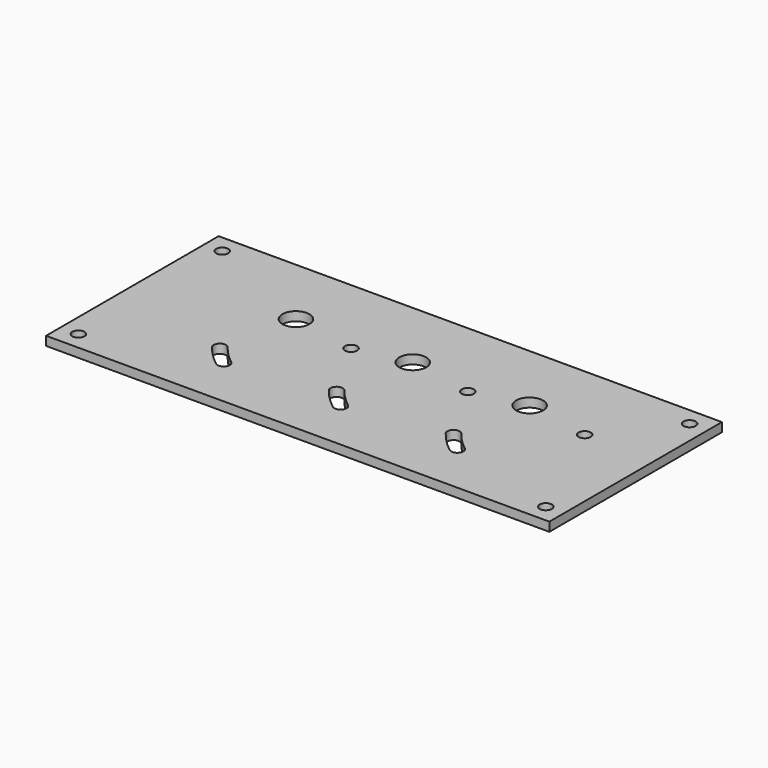
from build123d import *

# Parameters (mm, degrees)
F0_W     = 177.8
F0_H     = 76.2
F3_DEPTH = 3.175
F4_DEPTH = 3.176
F5_D     = 4.3053
F6_D     = 9.5504


with BuildPart() as f3:
    # F0 (on Top) → F3 (new body)
    with BuildSketch(Plane.XY):
        with Locations((88.9, 38.1)):
            Rectangle(F0_W, F0_H)
    extrude(amount=F3_DEPTH)

    # F2 (on face) → F4 (cut, through all)
    with BuildSketch(Plane.XY):
        with BuildLine():
            ThreePointArc((47.0669316685, 16.2224972986), (50.0851940266, 16.6198590764), (49.6878322488, 19.6381214345))
            ThreePointArc((49.6878322488, 19.6381214345), (46.3399253491, 22.5741569859), (43.4038897977, 25.9220638856))
            ThreePointArc((43.4038897977, 25.9220638856), (40.3856274396, 26.3194256634), (39.9882656618, 23.3011633053))
            ThreePointArc((39.9882656618, 23.3011633053), (43.295618524, 19.5298501608), (47.0669316685, 16.2224972986))
        make_face()
        with BuildLine():
            ThreePointArc((88.3388878613, 16.2185305319), (91.3571502195, 16.6158923097), (90.9597884416, 19.6341546678))
            ThreePointArc((90.9597884416, 19.6341546678), (87.6113898152, 22.570621452), (84.674923031, 25.9190200784))
            ThreePointArc((84.674923031, 25.9190200784), (81.6566606729, 26.3163818563), (81.2592988951, 23.2981194981))
            ThreePointArc((81.2592988951, 23.2981194981), (84.5670829901, 19.5263146269), (88.3388878613, 16.2185305319))
        make_face()
        with BuildLine():
            ThreePointArc((129.6169316685, 16.2224972986), (132.6351940266, 16.6198590764), (132.2378322488, 19.6381214345))
            ThreePointArc((132.2378322488, 19.6381214345), (128.8899253491, 22.5741569859), (125.9538897977, 25.9220638856))
            ThreePointArc((125.9538897977, 25.9220638856), (122.9356274396, 26.3194256634), (122.5382656618, 23.3011633053))
            ThreePointArc((122.5382656618, 23.3011633053), (125.845618524, 19.5298501608), (129.6169316685, 16.2224972986))
        make_face()
    extrude(amount=F4_DEPTH, mode=Mode.SUBTRACT)

    # F5 (through all)
    with Locations(Plane(origin=(0, 0, 0), x_dir=(1, 0, 0), z_dir=(0, 0, -1))):
        with Locations((70.4115018816, -46.6457335184), (111.6865018816, -46.6457335184), (152.9615018816, -46.6457335184), (6.35, -69.85), (6.35, -6.35), (171.45, -69.85), (171.45, -6.35)):
            Hole(F5_D / 2)

    # F6 (through all)
    with Locations(Plane(origin=(0, 0, 0), x_dir=(1, 0, 0), z_dir=(0, 0, -1))):
        with Locations((47.625, -50.8), (88.9, -50.8), (130.175, -50.8)):
            Hole(F6_D / 2)


solid = f3.part
